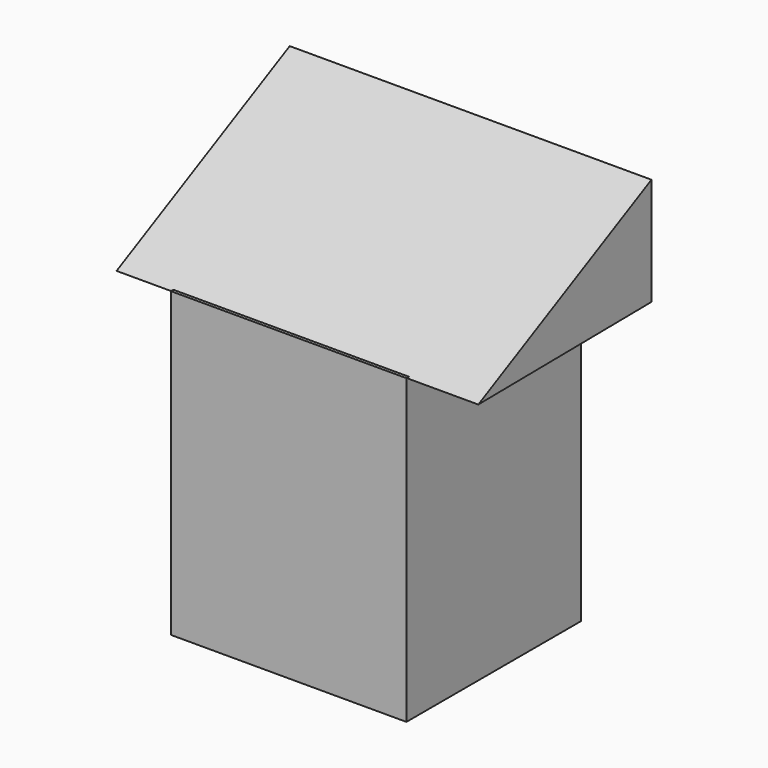
from build123d import *

# Parameters (mm, degrees)
F0_W     = 48.645027
F0_H     = 62.490149
F1_DEPTH = 45
F3_DEPTH = 74.7


with BuildPart() as f1:
    # F0 (on Front) → F1 (new body)
    with BuildSketch(Plane.XZ):
        with Locations((-38.916025, 4.677409)):
            Rectangle(F0_W, F0_H)
    extrude(amount=F1_DEPTH)

    # F2 (on Right) → F3 (join)
    with BuildSketch(Plane.YZ):
        Polygon((0, 58.458589), (-44.689424, 35.751533), (0, 36.234666), align=None)
    extrude(amount=-F3_DEPTH)


solid = f1.part
